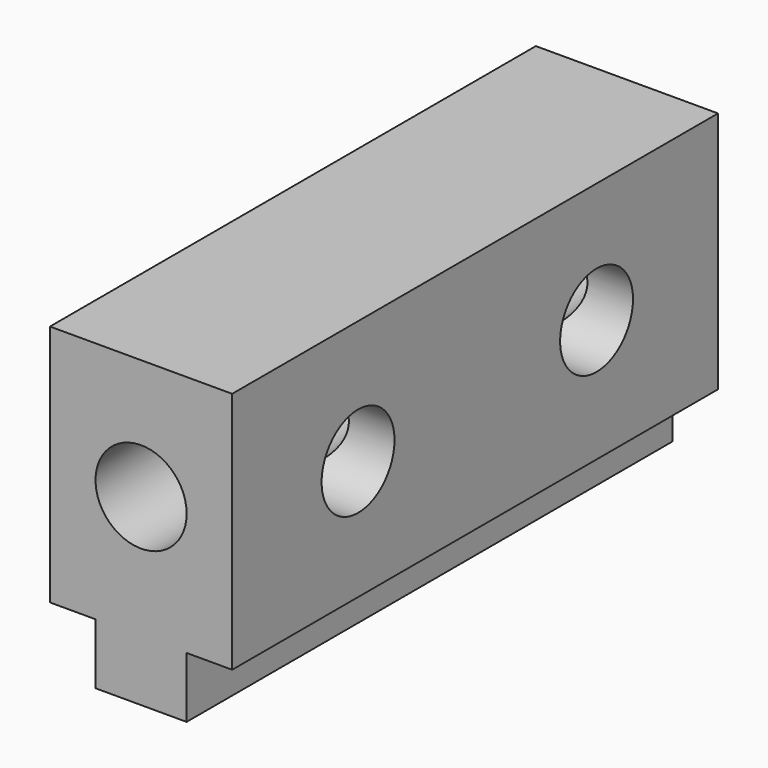
from build123d import *

# Parameters (mm, degrees)
F0_R     = 9.525
F1_DEPTH = 127
F2_R     = 9.525
F3_DEPTH = 60.96


with BuildPart() as f1:
    # F0 (on Front) → F1 (new body)
    with BuildSketch(Plane.XZ):
        Polygon((-28.575, -25.6290164173), (-28.575, -38.3290164173), (-9.525, -38.3290164173), (-9.525, -25.6290164173), (0, -25.6290164173), (0, 25.1709835827), (-38.1, 25.1709835827), (-38.1, -25.6290164173), align=None)
        with Locations((-19.05, 0)):
            Circle(F0_R, mode=Mode.SUBTRACT)
    extrude(amount=F1_DEPTH)

    # F2 (on Right) → F3 (cut)
    with BuildSketch(Plane.YZ):
        with BuildLine():
            ThreePointArc((-22.225, 0), (-25.0148079092, 6.7351920908), (-31.75, 9.525))
            Line((-31.75, 9.525), (-31.75, -9.525))
            ThreePointArc((-31.75, -9.525), (-25.0148079092, -6.7351920908), (-22.225, 0))
        make_face()
        with BuildLine():
            Line((-31.75, -9.525), (-31.75, 9.525))
            ThreePointArc((-31.75, 9.525), (-41.275, 0), (-31.75, -9.525))
        make_face()
        with Locations((-94.0945148468, -0.607660502)):
            Circle(F2_R)
    extrude(amount=-F3_DEPTH, mode=Mode.SUBTRACT)


solid = f1.part
